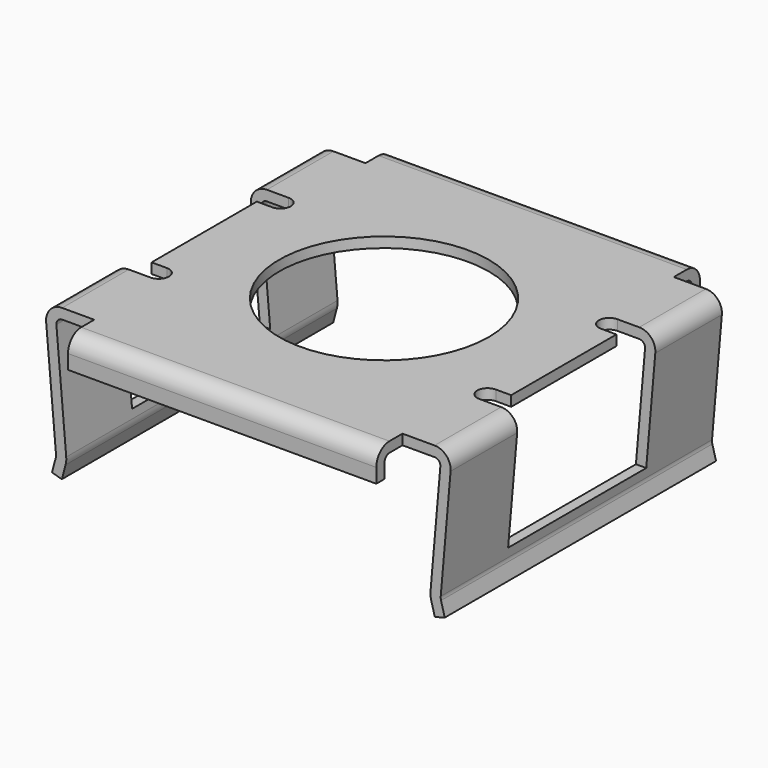
from build123d import *

# Parameters (mm, degrees)
PAD004_DEPTH      = 2.0955
PAD004_DEPTH_BACK = 2.0955
PAD005_DEPTH      = 1.905
PAD005_DEPTH_BACK = 1.905
POCKET001_DEPTH   = 1.503
SKETCH010_R       = 1.295
POCKET002_DEPTH   = 1.86594


with BuildPart() as part:
    # Sketch007 → Pad004 (new body, two sides)
    with BuildSketch(Plane.XZ) as pad004_sk:
        with BuildLine():
            Line((-2.250954, -1.606066), (-2.37273, -0.205003))
            ThreePointArc((-2.301215, -0.127), (-2.354127, -0.150274), (-2.37273, -0.205003))
            Line((-2.301215, -0.127), (2.301215, -0.127))
            ThreePointArc((2.37273, -0.205001), (2.354126, -0.150273), (2.301215, -0.127))
            Line((2.37273, -0.205001), (2.250954, -1.606066))
            ThreePointArc((2.250954, -1.606066), (2.250979, -1.650341), (2.258692, -1.69394))
            Line((2.258692, -1.69394), (2.304615, -1.86494))
            Line((2.304615, -1.86494), (2.427269, -1.832))
            Line((2.427269, -1.832), (2.381346, -1.661))
            ThreePointArc((2.377477, -1.617063), (2.37749, -1.639201), (2.381346, -1.661))
            Line((2.377477, -1.617063), (2.499253, -0.215998))
            ThreePointArc((2.499253, -0.215998), (2.447736, -0.064446), (2.301215, 0))
            Line((2.301215, 0), (-2.301215, 0))
            ThreePointArc((-2.301215, 0), (-2.447737, -0.064447), (-2.499253, -0.216))
            Line((-2.499253, -0.216), (-2.377477, -1.617063))
            ThreePointArc((-2.381346, -1.661), (-2.37749, -1.639201), (-2.377477, -1.617063))
            Line((-2.381346, -1.661), (-2.427269, -1.832))
            Line((-2.427269, -1.832), (-2.304615, -1.86494))
            Line((-2.304615, -1.86494), (-2.258692, -1.69394))
            ThreePointArc((-2.258692, -1.69394), (-2.250979, -1.650341), (-2.250954, -1.606066))
        make_face()
    extrude(amount=PAD004_DEPTH)
    extrude(pad004_sk.sketch, amount=-PAD004_DEPTH_BACK)

    # Sketch008 → Pad005 (join, two sides)
    with BuildSketch(Plane.YZ) as pad005_sk:
        with BuildLine():
            Line((2.297, 0), (-2.297, 0))
            ThreePointArc((-2.297, 0), (-2.440543, -0.059457), (-2.5, -0.203))
            Line((-2.5, -0.203), (-2.5, -0.381))
            Line((-2.5, -0.381), (-2.373, -0.381))
            Line((-2.373, -0.381), (-2.373, -0.203))
            ThreePointArc((-2.297, -0.127), (-2.35074, -0.14926), (-2.373, -0.203))
            Line((-2.297, -0.127), (2.297, -0.127))
            ThreePointArc((2.373, -0.203), (2.35074, -0.14926), (2.297, -0.127))
            Line((2.373, -0.203), (2.373, -0.381))
            Line((2.373, -0.381), (2.5, -0.381))
            Line((2.5, -0.381), (2.5, -0.203))
            ThreePointArc((2.5, -0.203), (2.440543, -0.059457), (2.297, 0))
        make_face()
    extrude(amount=PAD005_DEPTH)
    extrude(pad005_sk.sketch, amount=-PAD005_DEPTH_BACK)

    # Sketch009 → Pocket001 (cut)
    with BuildSketch(Plane.XY):
        with BuildLine():
            Line((-2.722, 1.067), (-2.032, 1.067))
            ThreePointArc((-2.032, 0.813), (-1.905, 0.94), (-2.032, 1.067))
            Line((-2.032, 0.813), (-2.222, 0.813))
            Line((-2.222, 0.813), (-2.222, -0.813))
            Line((-2.222, -0.813), (-2.032, -0.813))
            ThreePointArc((-2.032, -1.067), (-1.905, -0.94), (-2.032, -0.813))
            Line((-2.032, -1.067), (-2.722, -1.067))
            Line((-2.722, -1.067), (-2.722, 1.067))
        make_face()
    pocket001 = extrude(amount=-POCKET001_DEPTH, mode=Mode.SUBTRACT)

    # Mirrored001: Pocket001 across Sketch009 V_Axis
    add(pocket001.mirror(Plane(origin=(0, 0, 0), x_dir=(0, 0, 1), z_dir=(1, 0, 0))), mode=Mode.SUBTRACT)

    # Sketch010 → Pocket002 (cut, through all)
    with BuildSketch(Plane.XY):
        Circle(SKETCH010_R)
    extrude(amount=-POCKET002_DEPTH, mode=Mode.SUBTRACT)


with BuildPart() as part_1:
    # Body002 placement: moved
    add(part.part.moved(Location((0, 0, 2.54))))


solid = part_1.part
